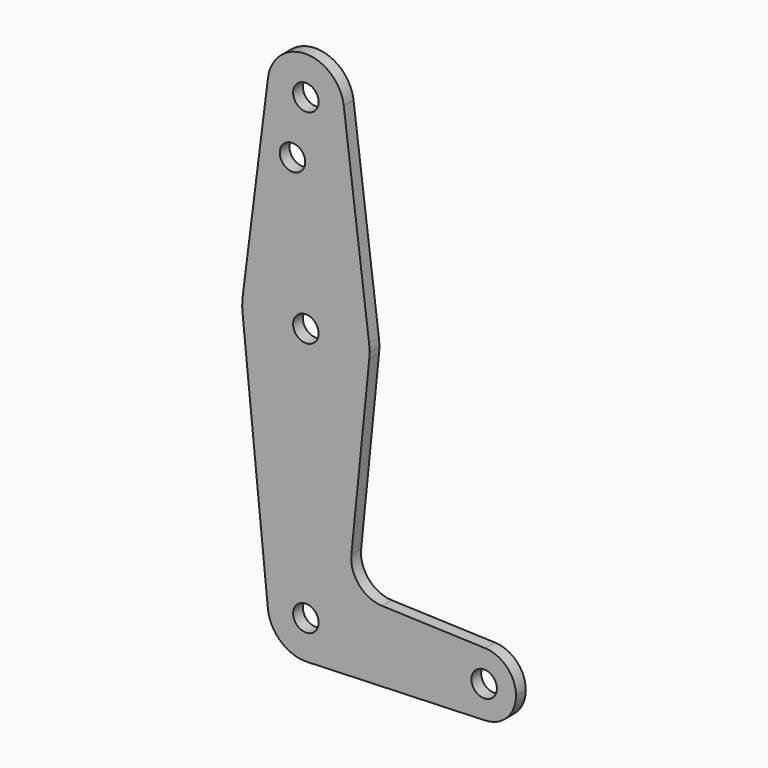
from build123d import *

# Parameters (mm, degrees)
F0_R     = 3.175
F1_DEPTH = 3.048


with BuildPart() as f1:
    # F0 (on Front) → F1 (new body)
    with BuildSketch(Plane.XZ):
        with BuildLine():
            ThreePointArc((0.340179, -65.084182), (6.854408, -62.179086), (9.525, -55.565259))
            ThreePointArc((9.525, -55.565259), (-0.476848, -46.052203), (-9.477255, -56.517759))
            ThreePointArc((-9.477255, -56.517759), (-6.262383, -62.742179), (0.340179, -65.084182))
        make_face()
        with Locations((0, -55.565259)):
            Circle(F0_R, mode=Mode.SUBTRACT)
        with BuildLine():
            ThreePointArc((-9.477255, -56.517759), (-0.476848, -46.052203), (9.525, -55.565259))
            ThreePointArc((9.525, -55.565259), (6.854408, -62.179086), (0.340179, -65.084182))
            Line((0.340179, -65.084182), (44.733482, -63.497695))
            ThreePointArc((44.733482, -63.497695), (36.5125, -55.565259), (44.733482, -47.632823))
            Line((44.733482, -47.632823), (18.9676, -46.712025))
            ThreePointArc((18.9676, -46.712025), (13.2612, -43.9939), (11.341187, -37.971877))
            Line((11.341187, -37.971877), (15.795426, 6.347241))
            ThreePointArc((15.795426, 6.347241), (0, -7.940259), (-15.795426, 6.347241))
            Line((-15.795426, 6.347241), (-9.477255, -56.517759))
        make_face()
        with BuildLine():
            ThreePointArc((-15.750488, 9.919116), (-15.873744, 8.134447), (-15.795426, 6.347241))
            ThreePointArc((-15.795426, 6.347241), (0, -7.940259), (15.795426, 6.347241))
            ThreePointArc((15.795426, 6.347241), (15.855094, 7.139995), (15.875, 7.934741))
            ThreePointArc((15.875, 7.934741), (15.843841, 8.92888), (15.750488, 9.919116))
            ThreePointArc((15.750488, 9.919116), (0, 23.809741), (-15.750488, 9.919116))
        make_face()
        with Locations((0, 7.934741)):
            Circle(F0_R, mode=Mode.SUBTRACT)
        with BuildLine():
            ThreePointArc((44.733482, -47.632823), (36.5125, -55.565259), (44.733482, -63.497695))
            ThreePointArc((44.733482, -63.497695), (50.162007, -61.076782), (52.3875, -55.565259))
            ThreePointArc((52.3875, -55.565259), (50.162007, -50.053736), (44.733482, -47.632823))
        make_face()
        with Locations((44.45, -55.565259)):
            Circle(F0_R, mode=Mode.SUBTRACT)
        with BuildLine():
            Line((-9.450293, 59.925366), (-15.750488, 9.919116))
            ThreePointArc((-15.750488, 9.919116), (0, 23.809741), (15.750488, 9.919116))
            Line((15.750488, 9.919116), (9.450293, 59.925366))
            ThreePointArc((9.450293, 59.925366), (9.506305, 59.331224), (9.525, 58.734741))
            ThreePointArc((9.525, 58.734741), (-0.596483, 49.228436), (-9.450293, 59.925366))
        make_face()
        with Locations((-3.338332, 44.459941)):
            Circle(F0_R, mode=Mode.SUBTRACT)
        with BuildLine():
            ThreePointArc((9.450293, 59.925366), (0, 68.259741), (-9.450293, 59.925366))
            ThreePointArc((-9.450293, 59.925366), (-0.596483, 49.228436), (9.525, 58.734741))
            ThreePointArc((9.525, 58.734741), (9.506305, 59.331224), (9.450293, 59.925366))
        make_face()
        with Locations((0, 58.734741)):
            Circle(F0_R, mode=Mode.SUBTRACT)
    extrude(amount=F1_DEPTH)


solid = f1.part
